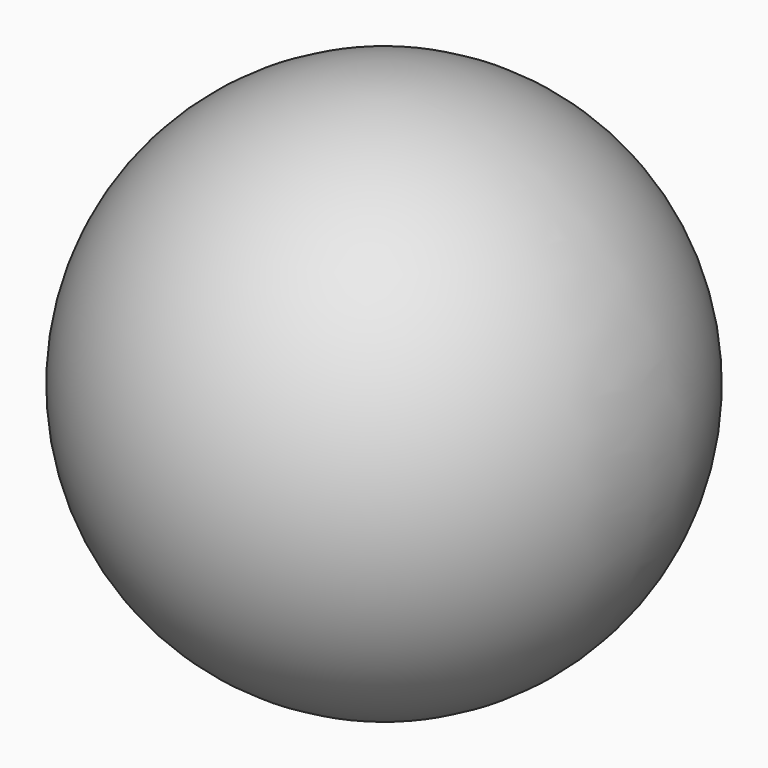
from build123d import *


with BuildPart() as part:
    # Sphere → Sphere (revolve)
    with BuildSketch(Plane(origin=(-19.999996, 1.209347, 0.028432), x_dir=(1, 0, 0), z_dir=(0, -1, 0))):
        with BuildLine():
            ThreePointArc((0, -5), (5, 0), (0, 5))
            Line((0, 5), (0, -5))
        make_face()
    revolve(axis=Axis((-19.999996, 1.209347, 0.028432), (0, 0, 1)))


solid = part.part
